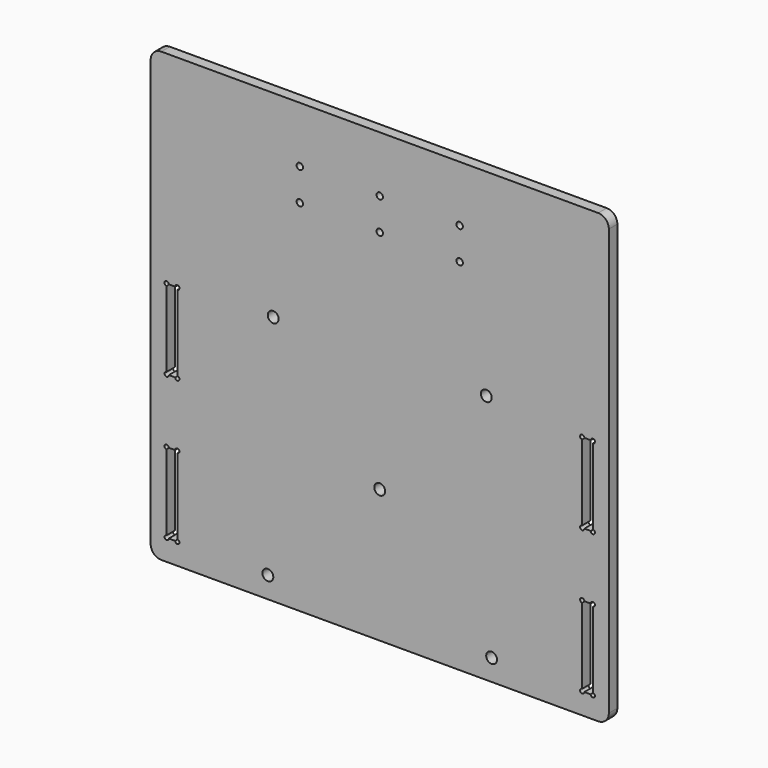
from build123d import *

# Parameters (mm, degrees)
F0_R     = 5.1
F0_R_2   = 3
F1_DEPTH = 10
F2_R     = 10


with BuildPart() as f1:
    # F0 (on Front) → F1 (new body)
    with BuildSketch(Plane.XZ):
        Polygon((-215, 0), (0, 0), (215, 0), (215, 420), (0, 420), (-215, 420), align=None)
        with BuildLine():
            ThreePointArc((-198, 20), (-201.414214, 18.585786), (-200, 22))
            Line((-200, 22), (-200, 93))
            ThreePointArc((-200, 93), (-201.414214, 96.414214), (-198, 95))
            Line((-198, 95), (-192, 95))
            ThreePointArc((-192, 95), (-188.585786, 96.414214), (-190, 93))
            Line((-190, 93), (-190, 22))
            ThreePointArc((-190, 22), (-188.585786, 18.585786), (-192, 20))
            Line((-192, 20), (-198, 20))
        make_face(mode=Mode.SUBTRACT)
        with Locations((-105, 20)):
            Circle(F0_R, mode=Mode.SUBTRACT)
        with BuildLine():
            Line((-192, 155), (-198, 155))
            ThreePointArc((-198, 155), (-201.414214, 153.585786), (-200, 157))
            Line((-200, 157), (-200, 228))
            ThreePointArc((-200, 228), (-201.414214, 231.414214), (-198, 230))
            Line((-198, 230), (-192, 230))
            ThreePointArc((-192, 230), (-188.585786, 231.414214), (-190, 228))
            Line((-190, 228), (-190, 157))
            ThreePointArc((-190, 157), (-188.585786, 153.585786), (-192, 155))
        make_face(mode=Mode.SUBTRACT)
        with Locations((105, 20)):
            Circle(F0_R, mode=Mode.SUBTRACT)
        with BuildLine():
            ThreePointArc((190, 93), (188.585786, 96.414214), (192, 95))
            Line((192, 95), (198, 95))
            ThreePointArc((198, 95), (201.414214, 96.414214), (200, 93))
            Line((200, 93), (200, 22))
            ThreePointArc((200, 22), (201.414214, 18.585786), (198, 20))
            Line((198, 20), (192, 20))
            ThreePointArc((192, 20), (188.585786, 18.585786), (190, 22))
            Line((190, 22), (190, 93))
        make_face(mode=Mode.SUBTRACT)
        with BuildLine():
            ThreePointArc((0, 119.9), (-5.1, 125), (0, 130.1))
            ThreePointArc((0, 130.1), (5.1, 125), (0, 119.9))
        make_face(mode=Mode.SUBTRACT)
        with BuildLine():
            Line((198, 155), (192, 155))
            ThreePointArc((192, 155), (188.585786, 153.585786), (190, 157))
            Line((190, 157), (190, 228))
            ThreePointArc((190, 228), (188.585786, 231.414214), (192, 230))
            Line((192, 230), (198, 230))
            ThreePointArc((198, 230), (201.414214, 231.414214), (200, 228))
            Line((200, 228), (200, 157))
            ThreePointArc((200, 157), (201.414214, 153.585786), (198, 155))
        make_face(mode=Mode.SUBTRACT)
        with Locations((-100, 234.8)):
            Circle(F0_R, mode=Mode.SUBTRACT)
        with Locations((-75, 337.4)):
            Circle(F0_R_2, mode=Mode.SUBTRACT)
        with Locations((-75, 367.4)):
            Circle(F0_R_2, mode=Mode.SUBTRACT)
        with Locations((100, 234.8)):
            Circle(F0_R, mode=Mode.SUBTRACT)
        with BuildLine():
            ThreePointArc((0, 340.4), (3, 337.4), (0, 334.4))
            ThreePointArc((0, 334.4), (-3, 337.4), (0, 340.4))
        make_face(mode=Mode.SUBTRACT)
        with BuildLine():
            ThreePointArc((0, 364.4), (-3, 367.4), (0, 370.4))
            ThreePointArc((0, 370.4), (3, 367.4), (0, 364.4))
        make_face(mode=Mode.SUBTRACT)
        with Locations((75, 337.4)):
            Circle(F0_R_2, mode=Mode.SUBTRACT)
        with Locations((75, 367.4)):
            Circle(F0_R_2, mode=Mode.SUBTRACT)
    extrude(amount=F1_DEPTH)

    # F2
    f2_edges = [f1.edges().sort_by_distance(p)[0] for p in [
        (215, -5, 0),
        (215, -5, 420),
        (-215, -5, 420),
        (-215, -5, 0),
    ]]
    fillet(f2_edges, radius=F2_R)


solid = f1.part
